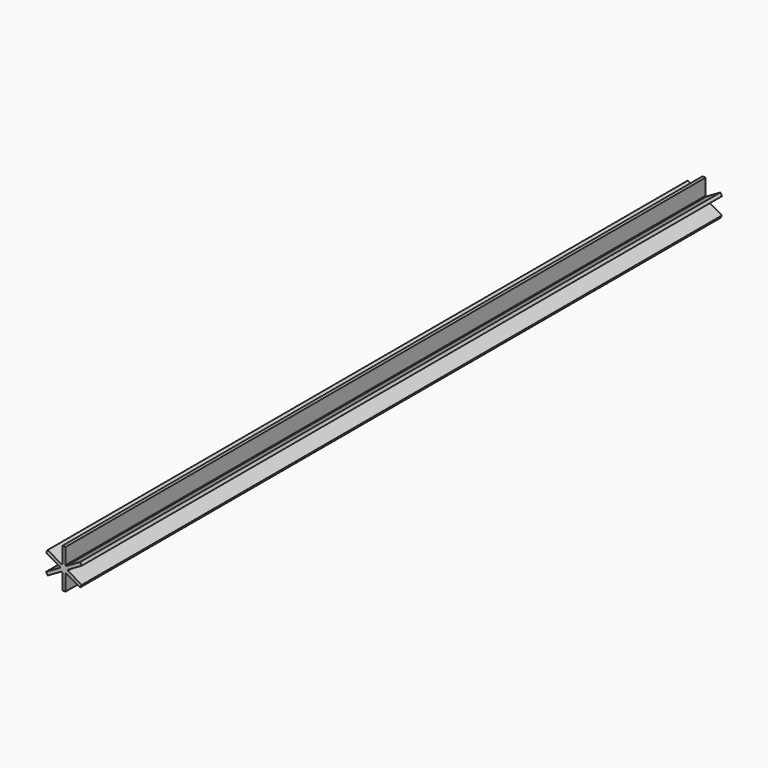
from build123d import *

# Parameters (mm, degrees)
F1_DEPTH = 5000


with BuildPart() as f1:
    # F0 (on Front) → F1 (new body)
    with BuildSketch(Plane.XZ):
        with BuildLine():
            ThreePointArc((14.843135, 20.116693), (21.650635, 12.5), (24.843135, 2.796185))
            Line((24.843135, 2.796185), (111.445675, 52.796185))
            Line((111.445675, 52.796185), (106.445675, 61.456439))
            Line((106.445675, 61.456439), (101.445675, 70.116693))
            Line((101.445675, 70.116693), (14.843135, 20.116693))
        make_face()
        with BuildLine():
            Line((111.445675, -52.796185), (24.843135, -2.796185))
            ThreePointArc((24.843135, -2.796185), (21.650635, -12.5), (14.843135, -20.116693))
            Line((14.843135, -20.116693), (101.445675, -70.116693))
            Line((101.445675, -70.116693), (106.445675, -61.456439))
            Line((106.445675, -61.456439), (111.445675, -52.796185))
        make_face()
        with BuildLine():
            Line((10, -122.912878), (10, -22.912878))
            ThreePointArc((10, -22.912878), (0, -25), (-10, -22.912878))
            Line((-10, -22.912878), (-10, -122.912878))
            Line((-10, -122.912878), (0, -122.912878))
            Line((0, -122.912878), (10, -122.912878))
        make_face()
        with BuildLine():
            ThreePointArc((24.843135, -2.796185), (24.960753, -1.400291), (25, 0))
            ThreePointArc((25, 0), (24.960753, 1.400291), (24.843135, 2.796185))
            ThreePointArc((24.843135, 2.796185), (21.650635, 12.5), (14.843135, 20.116693))
            ThreePointArc((14.843135, 20.116693), (12.5, 21.650635), (10, 22.912878))
            ThreePointArc((10, 22.912878), (0, 25), (-10, 22.912878))
            ThreePointArc((-10, 22.912878), (-12.5, 21.650635), (-14.843135, 20.116693))
            ThreePointArc((-14.843135, 20.116693), (-21.650635, 12.5), (-24.843135, 2.796185))
            ThreePointArc((-24.843135, 2.796185), (-25, 0), (-24.843135, -2.796185))
            ThreePointArc((-24.843135, -2.796185), (-21.650635, -12.5), (-14.843135, -20.116693))
            ThreePointArc((-14.843135, -20.116693), (-12.5, -21.650635), (-10, -22.912878))
            ThreePointArc((-10, -22.912878), (0, -25), (10, -22.912878))
            ThreePointArc((10, -22.912878), (12.5, -21.650635), (14.843135, -20.116693))
            ThreePointArc((14.843135, -20.116693), (21.650635, -12.5), (24.843135, -2.796185))
        make_face()
        with BuildLine():
            Line((-101.445675, -70.116693), (-14.843135, -20.116693))
            ThreePointArc((-14.843135, -20.116693), (-21.650635, -12.5), (-24.843135, -2.796185))
            Line((-24.843135, -2.796185), (-111.445675, -52.796185))
            Line((-111.445675, -52.796185), (-106.445675, -61.456439))
            Line((-106.445675, -61.456439), (-101.445675, -70.116693))
        make_face()
        with BuildLine():
            ThreePointArc((-24.843135, 2.796185), (-21.650635, 12.5), (-14.843135, 20.116693))
            Line((-14.843135, 20.116693), (-101.445675, 70.116693))
            Line((-101.445675, 70.116693), (-106.445675, 61.456439))
            Line((-106.445675, 61.456439), (-111.445675, 52.796185))
            Line((-111.445675, 52.796185), (-24.843135, 2.796185))
        make_face()
        with BuildLine():
            ThreePointArc((-10, 22.912878), (0, 25), (10, 22.912878))
            Line((10, 22.912878), (10, 122.912878))
            Line((10, 122.912878), (0, 122.912878))
            Line((0, 122.912878), (-10, 122.912878))
            Line((-10, 122.912878), (-10, 22.912878))
        make_face()
    extrude(amount=-F1_DEPTH)


solid = f1.part
